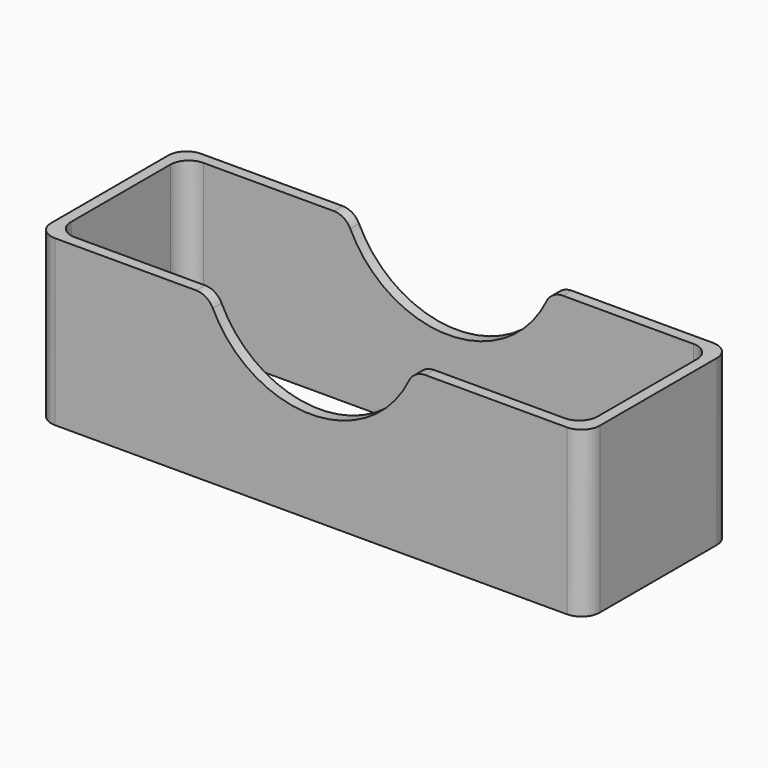
from build123d import *

# Parameters (mm, degrees)
F0_W     = 150
F0_H     = 50
F0_W_2   = 144
F0_H_2   = 44
F1_DEPTH = 45
F3_DEPTH = 53.9
F4_R     = 5


with BuildPart() as f1:
    # F0 (on Top) → F1 (new body)
    with BuildSketch(Plane.XY):
        Rectangle(F0_W, F0_H)
        Rectangle(F0_W_2, F0_H_2, mode=Mode.SUBTRACT)
    extrude(amount=F1_DEPTH)

    # F2 (on face) → F3 (cut)
    with BuildSketch(Plane.XZ.offset(25)):
        with BuildLine():
            ThreePointArc((-31.312153, 45), (-28.654867, 44.235426), (-26.810258, 42.175533))
            ThreePointArc((-26.810258, 42.175533), (0, 25.354907), (26.810258, 42.175533))
            ThreePointArc((26.810258, 42.175533), (28.654867, 44.235426), (31.312153, 45))
            Line((31.312153, 45), (-31.312153, 45))
        make_face()
    extrude(amount=-F3_DEPTH, mode=Mode.SUBTRACT)

    # F4
    f4_edges = [f1.edges().sort_by_distance(p)[0] for p in [
        (-75, 25, 22.5),
        (-75, -25, 22.5),
        (75, 25, 22.5),
        (75, -25, 22.5),
        (-72, -22, 22.5),
        (72, -22, 22.5),
        (72, 22, 22.5),
        (-72, 22, 22.5),
    ]]
    fillet(f4_edges, radius=F4_R)


solid = f1.part
